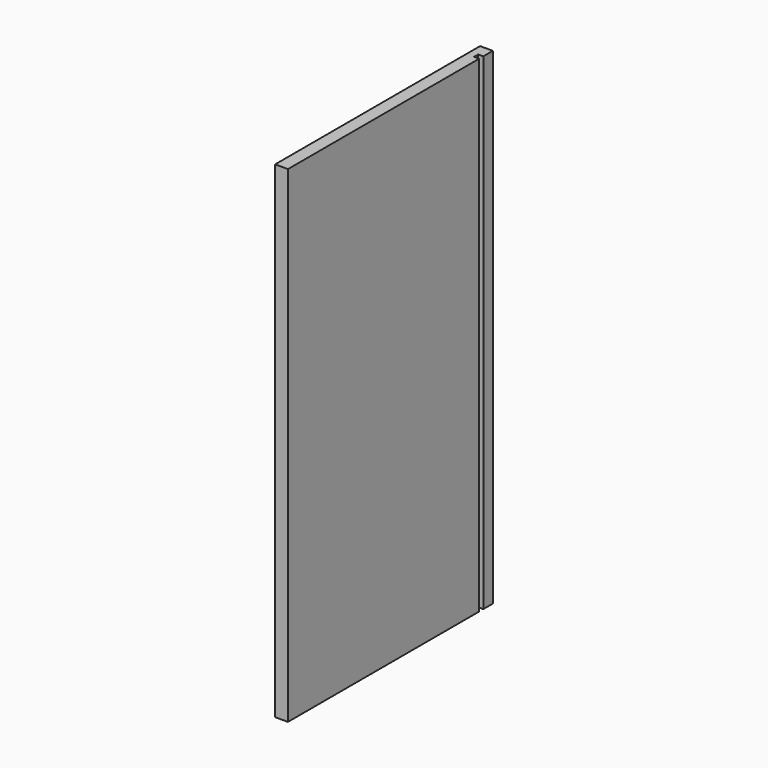
from build123d import *

# Parameters (mm, degrees)
F0_W     = 300
F0_H     = 570
F1_DEPTH = 15
F2_W     = 6
F2_H     = 6
F3_DEPTH = 600


with BuildPart() as f1:
    # F0 (on Right) → F1 (new body)
    with BuildSketch(Plane.YZ):
        with Locations((-150, 285)):
            Rectangle(F0_W, F0_H)
    extrude(amount=F1_DEPTH)

    # F2 (on face) → F3 (cut)
    with BuildSketch(Plane.XY.offset(570)):
        with Locations((12, -17)):
            Rectangle(F2_W, F2_H)
    extrude(amount=-F3_DEPTH, mode=Mode.SUBTRACT)


solid = f1.part
